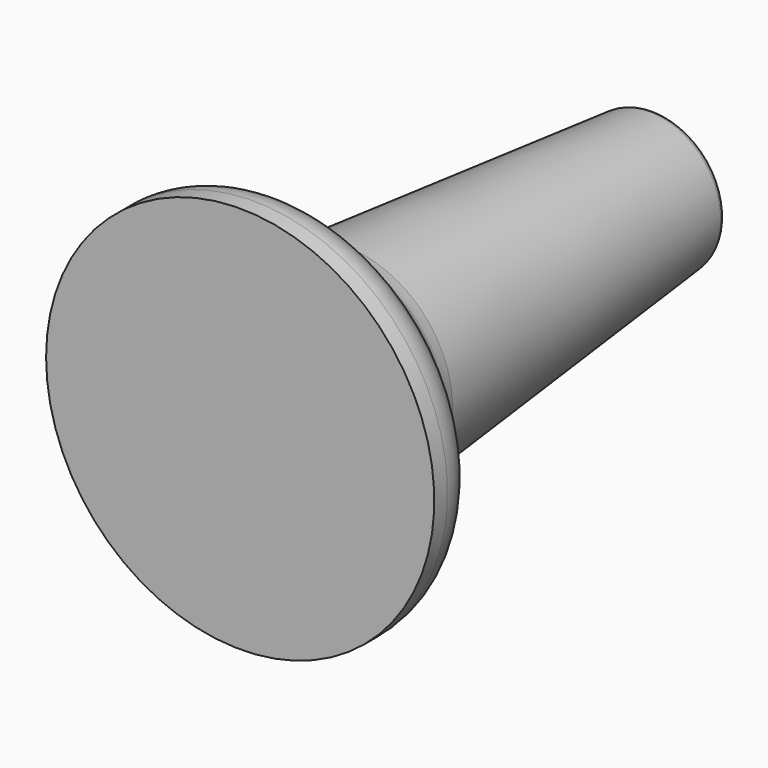
from build123d import *


with BuildPart() as f1:
    # F0 (on Top) → F1 (revolve)
    with BuildSketch(Plane.XY):
        with BuildLine():
            Line((0, -8.944546), (0, 27.198196))
            ThreePointArc((0, 27.198196), (-1.435824, 27.814922), (-2.23889, 29.155454))
            Line((-2.23889, 29.155454), (-4.74317, 29.155454))
            ThreePointArc((-4.74317, 29.155454), (-5.084962, 29.023276), (-5.24889, 28.695525))
            Line((-5.24889, 28.695525), (-7.907826, 0.722806))
            ThreePointArc((-7.907826, 0.722806), (-8.214711, -0.410327), (-8.912371, -1.354487))
            Line((-8.912371, -1.354487), (-13.273168, -5.40462))
            ThreePointArc((-13.273168, -5.40462), (-14.02289, -6.462064), (-14.2875, -7.731021))
            Line((-14.2875, -7.731021), (-14.2875, -8.944546))
            Line((-14.2875, -8.944546), (0, -8.944546))
        make_face()
    revolve(axis=Axis((0, 7.89611, 0), (0, -1, 0)))


solid = f1.part
